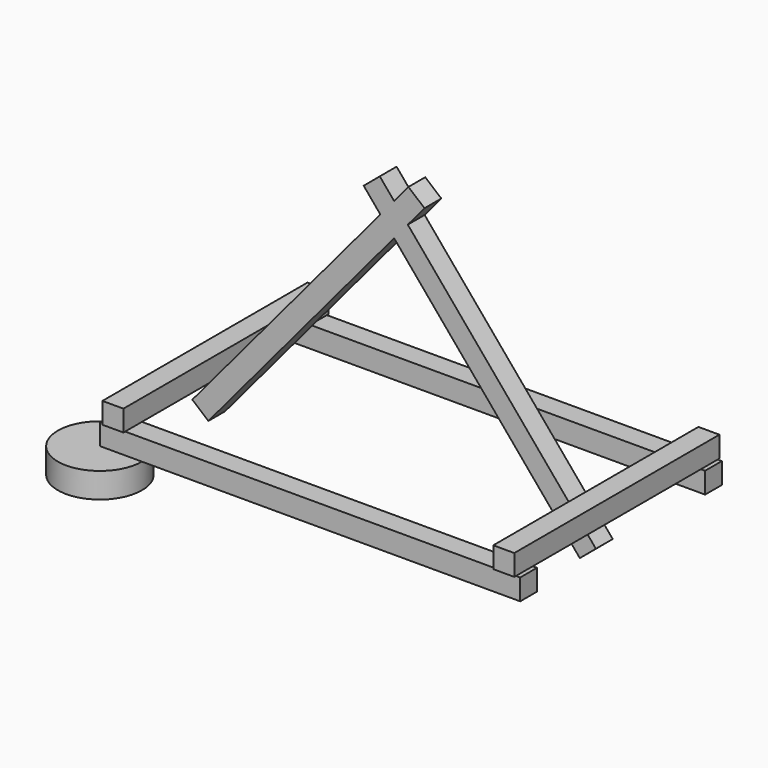
from build123d import *

# Parameters (mm, degrees)
F0_W     = 1000
F0_H     = 50
F1_DEPTH = 50
F2_W     = 50
F2_H     = 555
F2_H_2   = 50
F2_H_3   = 5
F3_DEPTH = 50
F5_DEPTH = 50
F6_R     = 100
F7_DEPTH = 60


with BuildPart() as f1:
    # F0 (on Top) → F1 (new body)
    with BuildSketch(Plane.XY):
        with Locations((0, 275)):
            Rectangle(F0_W, F0_H)
    extrude(amount=F1_DEPTH)



with BuildPart() as f1b:
    # F0 (on Top) → F1, piece 2 (new body)
    with BuildSketch(Plane.XY):
        with Locations((0, -275)):
            Rectangle(F0_W, F0_H)
    extrude(amount=F1_DEPTH)


with BuildPart() as f1_1:
    add(f1.part)

    add(f1b.part)  # F3 merges F1b
    # F2 (on face) → F3 (join)
    with BuildSketch(Plane.XY.offset(50)):
        with Locations((-465, -27.5)):
            Rectangle(F2_W, F2_H)
        with Locations((465, -27.5)):
            Rectangle(F2_W, F2_H)
        with Locations((-465, 275)):
            Rectangle(F2_W, F2_H_2)
        with Locations((465, 275)):
            Rectangle(F2_W, F2_H_2)
        with Locations((-465, 302.5)):
            Rectangle(F2_W, F2_H_3)
        with Locations((465, 302.5)):
            Rectangle(F2_W, F2_H_3)
    extrude(amount=F3_DEPTH)


with BuildPart() as f5:
    # F4 (on Front) → F5 (new body)
    with BuildSketch(Plane.XZ):
        Polygon((72.3724817217, 582.8355544952), (34.0702595657, 614.9749349795), (0, 574.3715807415), (32.6351822333, 535.4784850699), align=None)
        Polygon((-32.6351822333, 535.4784850699), (0, 574.3715807415), (-34.0702595657, 614.9749349795), (-72.3724817217, 582.8355544952), align=None)
        Polygon((32.6351822333, 535.4784850699), (0, 574.3715807415), (-32.6351822333, 535.4784850699), (0, 496.5853893984), align=None)
        Polygon((0, 496.5853893984), (-32.6351822333, 535.4784850699), (-480.1598281835, 2.1393804843), (-441.8576060276, -30), align=None)
        Polygon((480.1598281835, 2.1393804843), (32.6351822333, 535.4784850699), (0, 496.5853893984), (441.8576060276, -30), align=None)
    extrude(amount=F5_DEPTH)


with BuildPart() as f7:
    # F6 (on Top) → F7 (new body)
    with BuildSketch(Plane.XY):
        with Locations((-500, -300)):
            Circle(F6_R)
    extrude(amount=-F7_DEPTH)


solid = Compound([f1_1.part, f5.part, f7.part])
